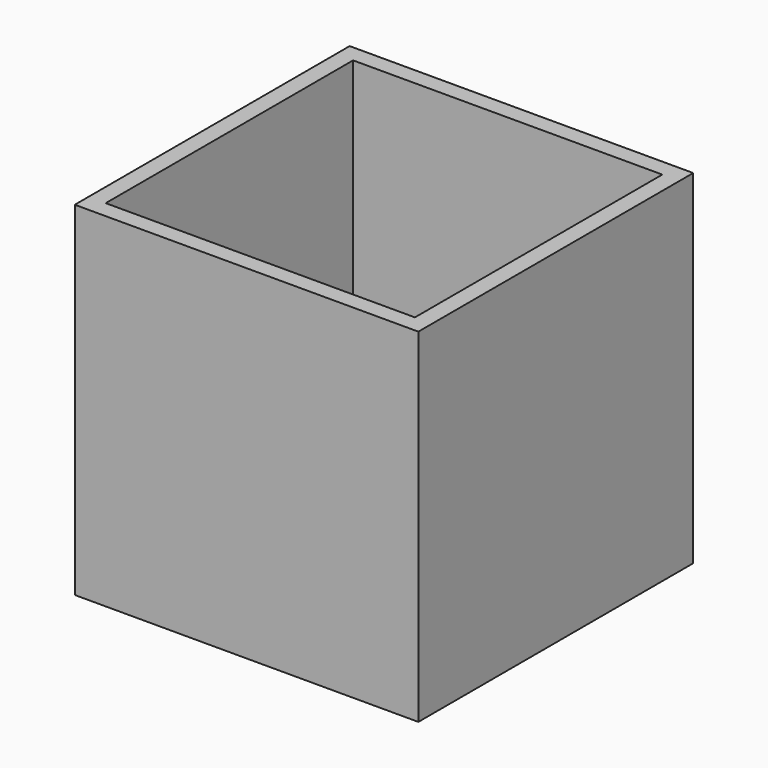
from build123d import *

# Parameters (mm, degrees)
F0_W     = 101.6
F0_H     = 101.6
F0_W_2   = 91.44
F0_H_2   = 91.44
F2_DEPTH = 101.6
F1_W     = 91.44
F1_H     = 45.72
F3_DEPTH = 5.08


with BuildPart() as f2:
    # F0 (on Top) → F2 (new body)
    with BuildSketch(Plane.XY):
        Rectangle(F0_W, F0_H)
        Rectangle(F0_W_2, F0_H_2, mode=Mode.SUBTRACT)
    extrude(amount=F2_DEPTH)

    # F1 (on face) → F3 (join)
    with BuildSketch(Plane.XY):
        with Locations((0, -22.86)):
            Rectangle(F1_W, F1_H)
    extrude(amount=F3_DEPTH)


solid = f2.part
